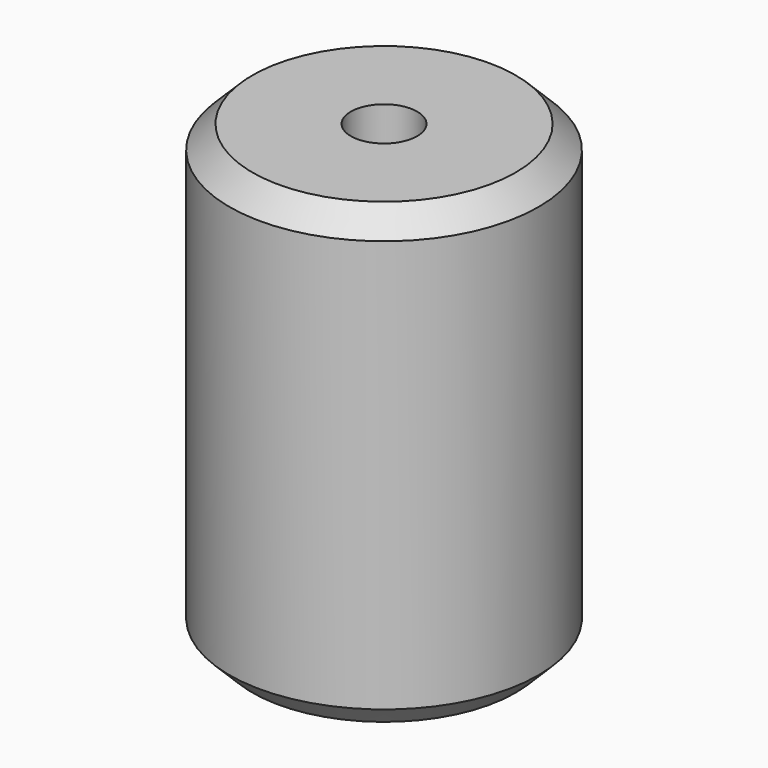
from build123d import *

# Parameters (mm, degrees)
F0_R     = 13.5
F1_DEPTH = 40
F2_R     = 2.9
F3_DEPTH = 35
F4_SIZE  = 2


with BuildPart() as f1:
    # F0 (on Top) → F1 (new body)
    with BuildSketch(Plane.XY):
        Circle(F0_R)
    extrude(amount=F1_DEPTH)

    # F2 (on face) → F3 (cut)
    with BuildSketch(Plane.XY.offset(40)):
        Circle(F2_R)
    extrude(amount=-F3_DEPTH, mode=Mode.SUBTRACT)

    # F4
    f4_edges = [f1.edges().sort_by_distance(p)[0] for p in [
        (-13.5, 0, 0),
        (-13.5, 0, 40),
    ]]
    chamfer(f4_edges, length=F4_SIZE)


solid = f1.part
